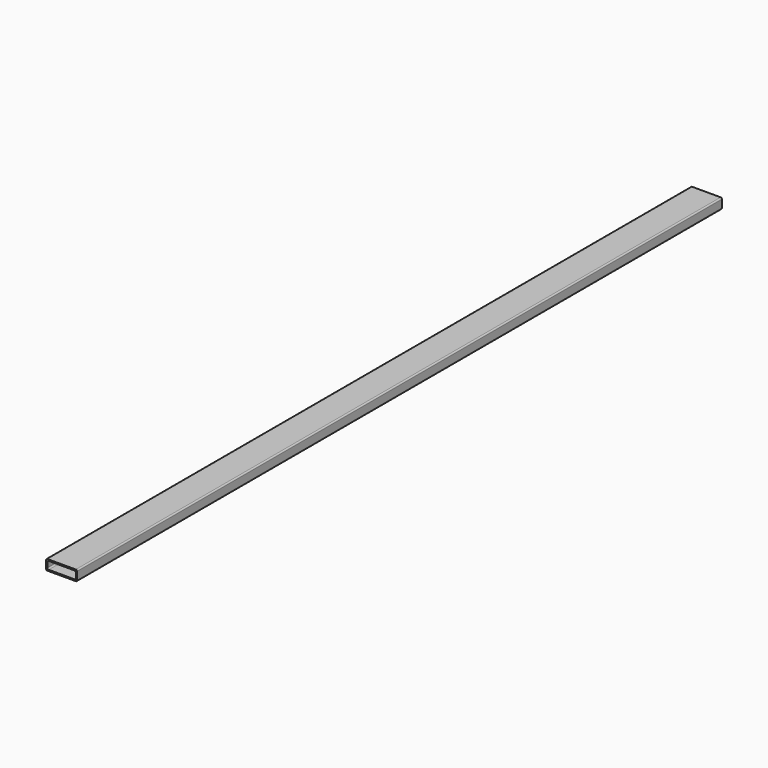
from build123d import *

# Parameters (mm, degrees)
F1_DEPTH = 1981.2


with BuildPart() as f1:
    # F0 (on Front) → F1 (new body)
    with BuildSketch(Plane.XZ):
        with BuildLine():
            ThreePointArc((0, 3.175), (0.929936, 0.929936), (3.175, 0))
            Line((3.175, 0), (73.025, 0))
            ThreePointArc((73.025, 0), (75.270064, 0.929936), (76.2, 3.175))
            Line((76.2, 3.175), (76.2, 22.225))
            ThreePointArc((76.2, 22.225), (75.270064, 24.470064), (73.025, 25.4))
            Line((73.025, 25.4), (3.175, 25.4))
            ThreePointArc((3.175, 25.4), (0.929936, 24.470064), (0, 22.225))
            Line((0, 22.225), (0, 3.175))
        make_face()
        with BuildLine():
            Line((69.85, 3.175), (6.35, 3.175))
            ThreePointArc((6.35, 3.175), (4.104936, 4.104936), (3.175, 6.35))
            Line((3.175, 6.35), (3.175, 19.05))
            ThreePointArc((3.175, 19.05), (4.104936, 21.295064), (6.35, 22.225))
            Line((6.35, 22.225), (69.85, 22.225))
            ThreePointArc((69.85, 22.225), (72.095064, 21.295064), (73.025, 19.05))
            Line((73.025, 19.05), (73.025, 6.35))
            ThreePointArc((73.025, 6.35), (72.095064, 4.104936), (69.85, 3.175))
        make_face(mode=Mode.SUBTRACT)
    extrude(amount=F1_DEPTH)


solid = f1.part
